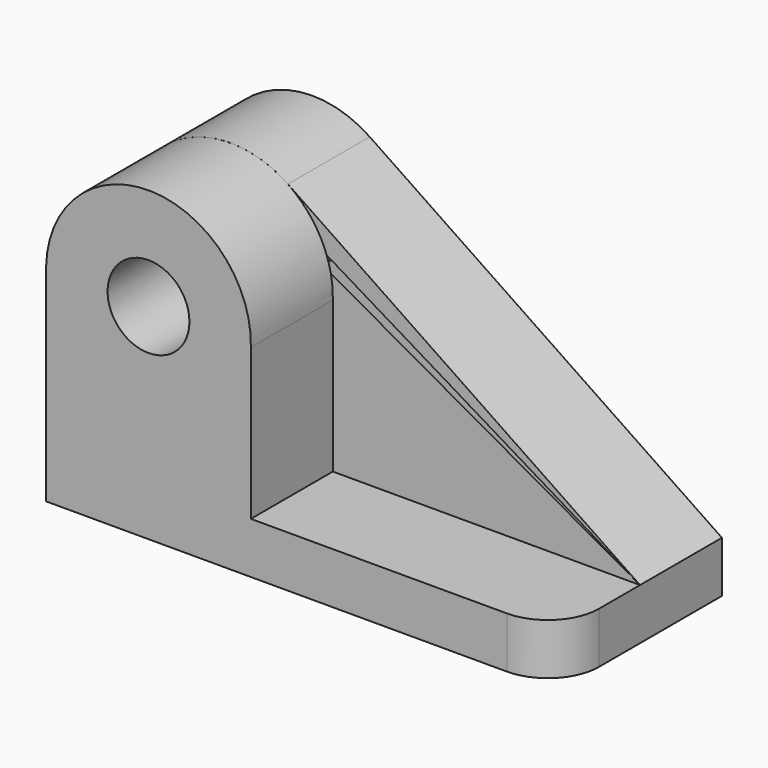
from build123d import *

# Parameters (mm, degrees)
F0_R     = 9.934414
F1_DEPTH = 25.4
F2_R     = 10.150579
F3_DEPTH = 25.4
F4_R     = 12.7


with BuildPart() as f1:
    # F0 (on Front) → F1 (new body)
    with BuildSketch(Plane.XZ):
        with BuildLine():
            Line((34.194267, 4.82379), (-53.155541, 63.962182))
            ThreePointArc((-53.155541, 63.962182), (-79.307403, 65.366782), (-92.805733, 42.92379))
            Line((-92.805733, 42.92379), (-92.805733, -7.87621))
            Line((-92.805733, -7.87621), (34.194267, -7.87621))
            Line((34.194267, -7.87621), (34.194267, 4.82379))
        make_face()
        with Locations((-67.399152, 42.92379)):
            Circle(F0_R, mode=Mode.SUBTRACT)
    extrude(amount=F1_DEPTH)

    # F2 (on face) → F3 (join)
    with BuildSketch(Plane.XZ.offset(25.4)):
        with BuildLine():
            Line((-42.007568, 4.82379), (-42.007568, 42.269981))
            ThreePointArc((-42.007568, 42.269981), (-66.745343, 68.315374), (-92.790736, 43.577599))
            Line((-92.790736, 43.577599), (-92.797315, 43.577768))
            ThreePointArc((-92.797315, 43.577768), (-92.803628, 43.250806), (-92.805733, 42.92379))
            Line((-92.805733, 42.92379), (-92.805733, 4.82379))
            Line((-92.805733, 4.82379), (-92.805733, -7.87621))
            Line((-92.805733, -7.87621), (34.194267, -7.87621))
            Line((34.194267, -7.87621), (34.194267, 4.82379))
            Line((34.194267, 4.82379), (-42.007568, 4.82379))
        make_face()
        with Locations((-67.399152, 42.92379)):
            Circle(F2_R, mode=Mode.SUBTRACT)
    extrude(amount=F3_DEPTH)

    # F4
    f4_edges = [f1.edges().sort_by_distance(p)[0] for p in [
        (34.194267, -50.8, -1.52621),
    ]]
    fillet(f4_edges, radius=F4_R)


solid = f1.part
